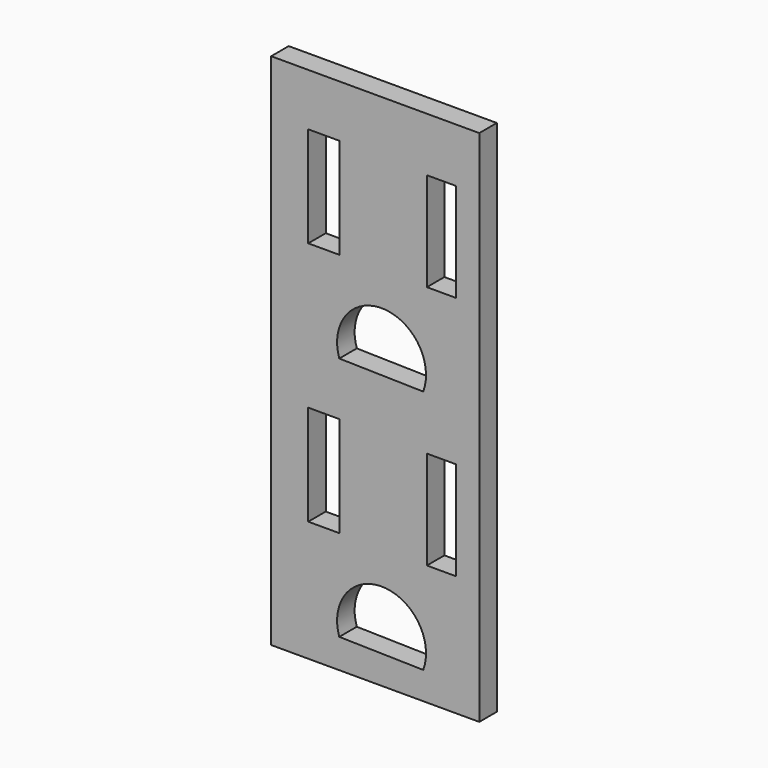
from build123d import *

# Parameters (mm, degrees)
F0_W     = 26.514942
F0_H     = 66.054767
F0_W_2   = 3.953981
F0_H_2   = 12.792298
F0_W_3   = 3.721397
F0_H_3   = 12.55971
F1_DEPTH = 2.794


with BuildPart() as f1:
    # F0 (on Front) → F1 (new body)
    with BuildSketch(Plane.XZ):
        with Locations((21.794523, 5.500135)):
            Rectangle(F0_W, F0_H)
        with Locations((15.234464, -5.75514)):
            Rectangle(F0_W_2, F0_H_2, mode=Mode.SUBTRACT)
        with BuildLine():
            ThreePointArc((17.211454, -23.785543), (22.724467, -16.38052), (27.910465, -24.01813))
            Line((27.910465, -24.01813), (17.211454, -23.785543))
        make_face(mode=Mode.SUBTRACT)
        with Locations((30.236339, -5.871434)):
            Rectangle(F0_W_3, F0_H_3, mode=Mode.SUBTRACT)
        with Locations((15.234464, 25.4683)):
            Rectangle(F0_W_2, F0_H_2, mode=Mode.SUBTRACT)
        with BuildLine():
            ThreePointArc((17.211454, 7.437897), (22.724467, 14.84292), (27.910465, 7.20531))
            Line((27.910465, 7.20531), (17.211454, 7.437897))
        make_face(mode=Mode.SUBTRACT)
        with Locations((30.236339, 25.352006)):
            Rectangle(F0_W_3, F0_H_3, mode=Mode.SUBTRACT)
    extrude(amount=-F1_DEPTH)


solid = f1.part
